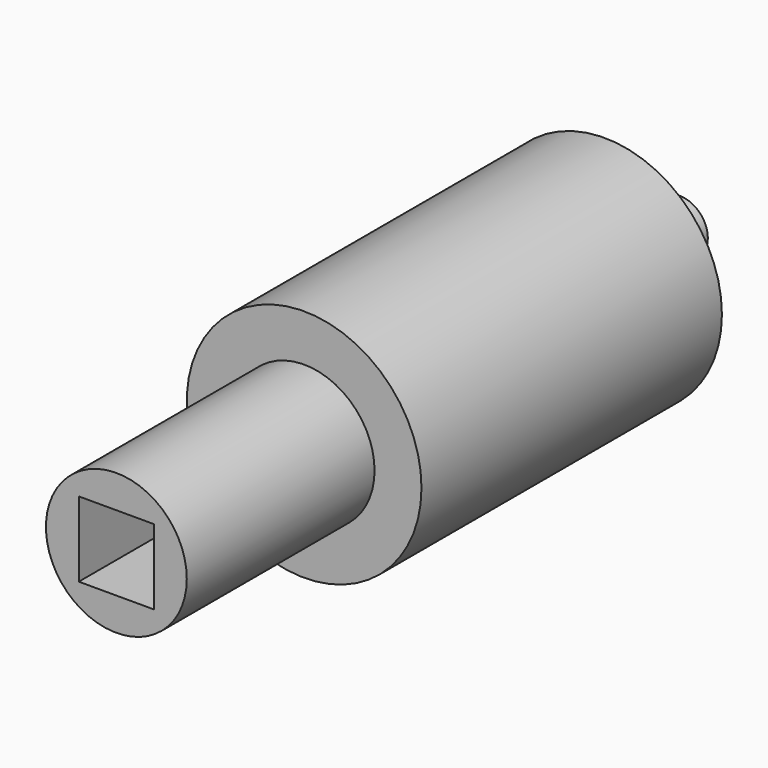
from build123d import *

# Parameters (mm, degrees)
F0_R     = 3
F1_DEPTH = 10
F2_R     = 12.5
F2_R_2   = 3
F3_DEPTH = 40
F4_R     = 7.5
F5_DEPTH = 25
F6_W     = 8
F6_H     = 8
F7_DEPTH = 15


with BuildPart() as f1:
    # F0 (on Front) → F1 (new body)
    with BuildSketch(Plane.XZ):
        Circle(F0_R)
    extrude(amount=F1_DEPTH)

    # F2 (on face) → F3 (join)
    with BuildSketch(Plane.XZ.offset(10)):
        Circle(F2_R)
        Circle(F2_R_2, mode=Mode.SUBTRACT)
        Circle(F2_R_2)
    extrude(amount=F3_DEPTH)

    # F4 (on face) → F5 (join)
    with BuildSketch(Plane.XZ.offset(50)):
        Circle(F4_R)
    extrude(amount=F5_DEPTH)

    # F6 (on face) → F7 (cut)
    with BuildSketch(Plane.XZ.offset(75)):
        Rectangle(F6_W, F6_H)
    extrude(amount=-F7_DEPTH, mode=Mode.SUBTRACT)


solid = f1.part
